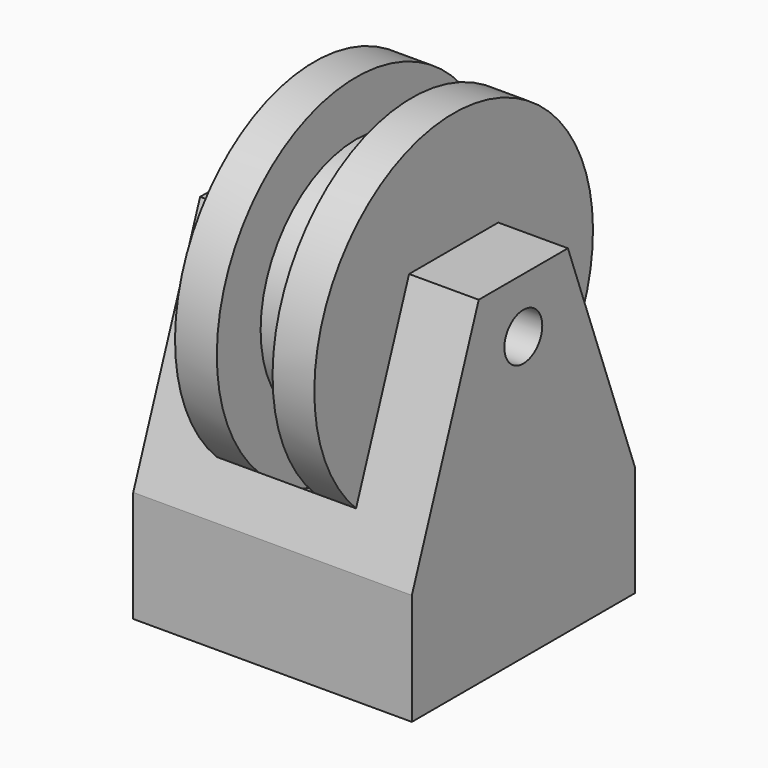
from build123d import *

# Parameters (mm, degrees)
F0_W     = 2.54
F0_H     = 2.54
F1_DEPTH = 1.016
F2_R     = 1.5875
F3_DEPTH = 0.635
F5_DEPTH = 2.54
F6_R     = 1.5875
F6_R_2   = 1.0884910838
F7_DEPTH = 0.254
F8_R     = 0.2159
F9_DEPTH = 25.4


with BuildPart() as f1:
    # F0 (on Top) → F1 (new body)
    with BuildSketch(Plane.XY):
        Rectangle(F0_W, F0_H)
    extrude(amount=F1_DEPTH)

    # F2 (on Right) → F3 (join, symmetric)
    with BuildSketch(Plane.YZ):
        with Locations((0, 2.5753788533)):
            Circle(F2_R)
    extrude(amount=F3_DEPTH, both=True)

    # F4 (on face) → F5 (join)
    with BuildSketch(Plane.YZ.offset(1.27)):
        Polygon((-0.508, 3.0783452729), (-1.27, 1.016), (1.27, 1.016), (0.508, 3.0783452729), align=None)
    extrude(amount=-F5_DEPTH)

    # F6 (on Right) → F7 (cut, symmetric)
    with BuildSketch(Plane.YZ):
        with Locations((0, 2.5753788533)):
            Circle(F6_R)
        with Locations((0, 2.5753788533)):
            Circle(F6_R_2, mode=Mode.SUBTRACT)
    extrude(amount=F7_DEPTH, both=True, mode=Mode.SUBTRACT)

    # F8 (on face) → F9 (cut)
    with BuildSketch(Plane.YZ.offset(1.27)):
        with Locations((0, 2.5753788533)):
            Circle(F8_R)
    extrude(amount=-F9_DEPTH, mode=Mode.SUBTRACT)


solid = f1.part
